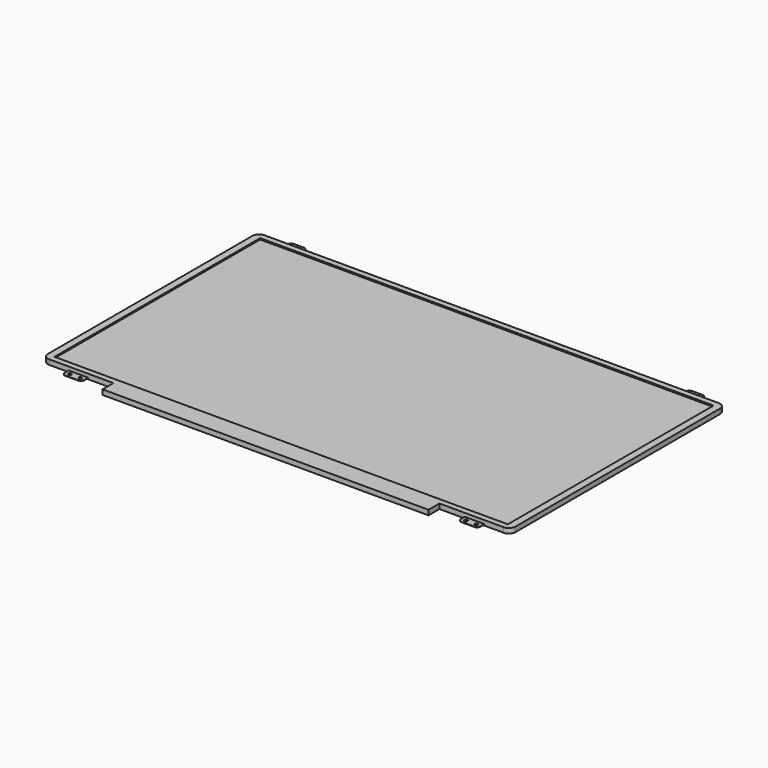
from build123d import *

# Parameters (mm, degrees)
F0_W      = 360
F0_H      = 207
F1_DEPTH  = 3.8
F2_R      = 5
F3_W      = 349.1
F3_H      = 198
F4_DEPTH  = 1
F6_W      = 13
F6_H      = 6.3
F6_W_2    = 15
F7_DEPTH  = 0.3
F8_R      = 2.4
F9_R      = 1.2
F10_DEPTH = 1.101
F11_W     = 251
F11_H     = 10.5
F12_DEPTH = 3.8


with BuildPart() as f1:
    # F0 (on Top) → F1 (new body)
    with BuildSketch(Plane.XY):
        Rectangle(F0_W, F0_H)
    extrude(amount=F1_DEPTH)

    # F2
    f2_edges = [f1.edges().sort_by_distance(p)[0] for p in [
        (180, 103.5, 1.9),
        (-180, 103.5, 1.9),
        (-180, -103.5, 1.9),
        (180, -103.5, 1.9),
    ]]
    fillet(f2_edges, radius=F2_R)

    # F3 (on face) → F4 (cut)
    with BuildSketch(Plane.XY.offset(3.8)):
        Rectangle(F3_W, F3_H)
    extrude(amount=-F4_DEPTH, mode=Mode.SUBTRACT)

    # F6 (on offset) → F7 (join)
    with BuildSketch(Plane.XY.offset(0.8)):
        with Locations((-153.5, 106.65)):
            Rectangle(F6_W, F6_H)
        with Locations((153.5, 106.65)):
            Rectangle(F6_W, F6_H)
        with Locations((-152.5, -106.65)):
            Rectangle(F6_W_2, F6_H)
        with Locations((152.5, -106.65)):
            Rectangle(F6_W_2, F6_H)
    extrude(amount=F7_DEPTH)

    # F8
    f8_edges = [f1.edges().sort_by_distance(p)[0] for p in [
        (-160, 109.8, 0.95),
        (-147, 109.8, 0.95),
        (147, 109.8, 0.95),
        (160, 109.8, 0.95),
        (145, -109.8, 0.95),
        (160, -109.8, 0.95),
        (-160, -109.8, 0.95),
        (-145, -109.8, 0.95),
    ]]
    fillet(f8_edges, radius=F8_R)

    # F9 (on face) → F10 (cut, through all)
    with BuildSketch(Plane.XY.offset(1.1)):
        with Locations((-156.5, 106.6)):
            Circle(F9_R)
        with Locations((-150.5, 106.6)):
            Circle(F9_R)
        with Locations((150.5, 106.6)):
            Circle(F9_R)
        with Locations((156.5, 106.6)):
            Circle(F9_R)
        with Locations((148.5, -106.7)):
            Circle(F9_R)
        with Locations((156.5, -106.7)):
            Circle(F9_R)
        with Locations((-156.5, -106.7)):
            Circle(F9_R)
        with Locations((-148.5, -106.7)):
            Circle(F9_R)
    extrude(amount=-F10_DEPTH, mode=Mode.SUBTRACT)

    # F11 (on Top) → F12 (join)
    with BuildSketch(Plane.XY):
        with Locations((0, -108.75)):
            Rectangle(F11_W, F11_H)
    extrude(amount=F12_DEPTH)


solid = f1.part
